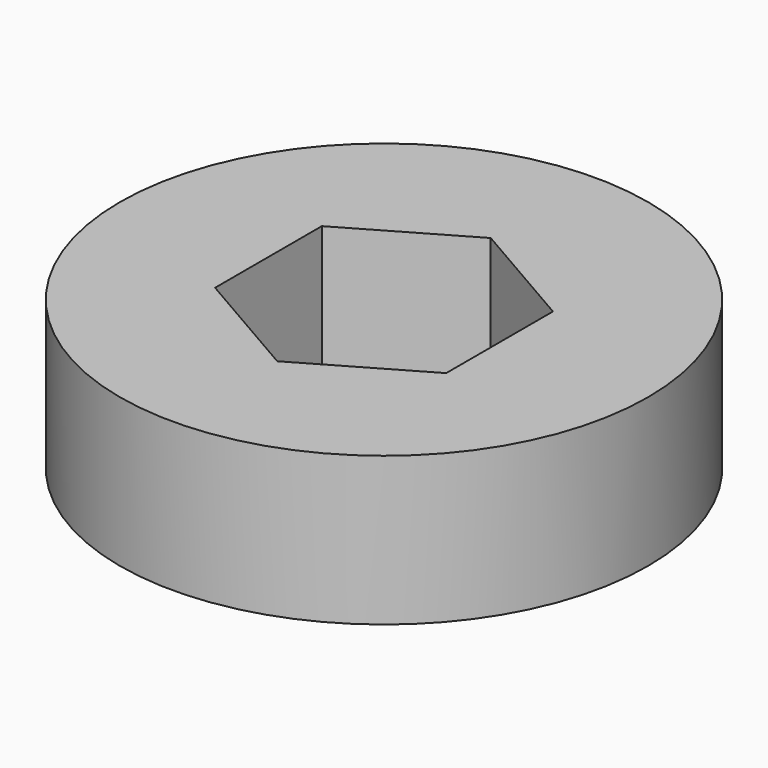
from build123d import *

# Parameters (mm, degrees)
F0_R     = 8
F1_DEPTH = 4.5


with BuildPart() as f1:
    # F0 (on Top) → F1 (new body)
    with BuildSketch(Plane.XY):
        Circle(F0_R)
        Polygon((3.5, 2.020726), (3.5, 0), (3.5, -2.020726), (1.75, -3.031089), (0, -4.041452), (-1.75, -3.031089), (-3.5, -2.020726), (-3.5, 0), (-3.5, 2.020726), (-1.75, 3.031089), (0, 4.041452), (1.75, 3.031089), align=None, mode=Mode.SUBTRACT)
    extrude(amount=F1_DEPTH)


solid = f1.part
